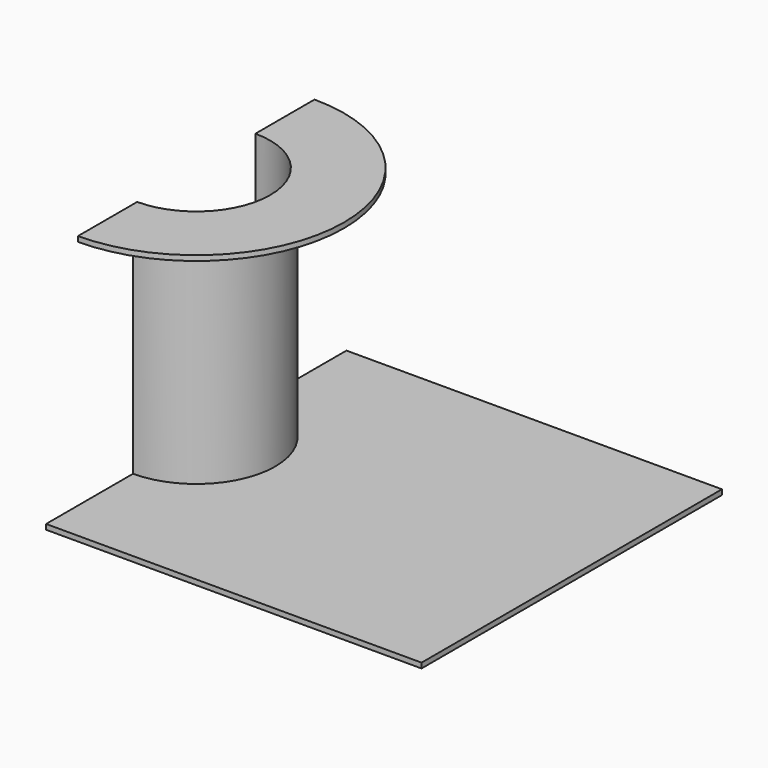
from build123d import *

# Parameters (mm, degrees)
PAD002_DEPTH            = 0.0348
PAD003_DEPTH            = 1.6048
PAD004_DEPTH            = 0.0348
BODY003_PLACEMENT_ANGLE = 180


with BuildPart() as part:
    # Sketch004 → Pad002 (new body)
    with BuildSketch(Plane.XY):
        with BuildLine():
            Line((-2.54, 1.27), (-2.54, -1.27))
            Line((-2.54, -1.27), (0, -1.27))
            Line((0, -1.27), (0, -0.5))
            ThreePointArc((0, 0.5), (-0.5, 0), (0, -0.5))
            Line((0, 0.5), (0, 1.27))
            Line((0, 1.27), (-2.54, 1.27))
        make_face()
    extrude(amount=PAD002_DEPTH)

    # Sketch005 → Pad003 (join)
    with BuildSketch(Plane.XY):
        with BuildLine():
            ThreePointArc((0, 0.5348), (-0.5348, 0), (0, -0.5348))
            Line((0, -0.5), (0, -0.5348))
            ThreePointArc((0, 0.5), (-0.5, 0), (0, -0.5))
            Line((0, 0.5348), (0, 0.5))
        make_face()
    extrude(amount=PAD003_DEPTH)

    # Sketch006 → Pad004 (join)
    with BuildSketch(Plane.XY.offset(1.6048)):
        with BuildLine():
            ThreePointArc((0, 0.5), (-0.5, 0), (0, -0.5))
            Line((0, -0.5), (0, -1))
            ThreePointArc((0, 1), (-1, 0), (0, -1))
            Line((0, 1), (0, 0.5))
        make_face()
    extrude(amount=PAD004_DEPTH)


with BuildPart() as part_1:
    # Body003 placement: moved
    add(part.part.moved(Location((-12.7, 0, 0))).rotate(Axis((-12.7, 0, 0), (0, 0, 1)), BODY003_PLACEMENT_ANGLE))


solid = part_1.part
